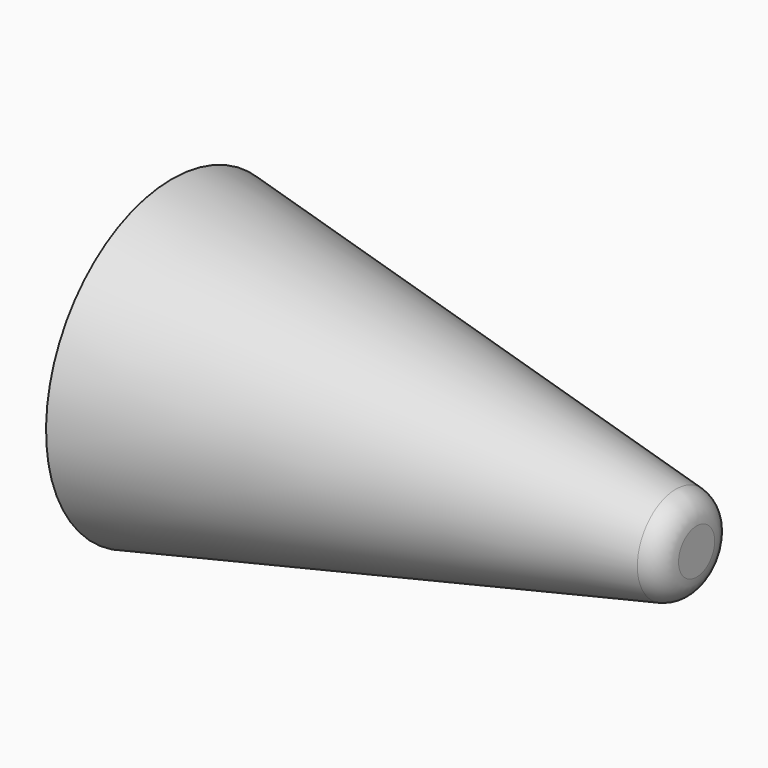
from build123d import *

# Parameters (mm, degrees)
F3_SCALE = 0.5


with BuildPart() as f2:
    # F1 (on Front) → F2 (revolve)
    with BuildSketch(Plane.XZ):
        with BuildLine():
            Line((-1.3292078643, 0.9), (-1.3292078643, 0))
            Line((-1.3292078643, 0), (1.6707921357, 0))
            Line((1.6707921357, 0), (1.6707921357, 0.035534465))
            Line((1.6707921357, 0.035534465), (1.6707921357, 0.1290195452))
            ThreePointArc((1.6707921357, 0.1290195452), (1.6375492561, 0.2231884087), (1.5525551378, 0.2756180162))
            Line((1.5525551378, 0.2756180162), (-1.3292078643, 0.9))
        make_face()
    revolve(axis=Axis((0.1707921357, 0, 0), (1, 0, 0)))


with BuildPart() as f2_1:
    # F3: moved
    add(f2.part.scale(F3_SCALE))


solid = f2_1.part
